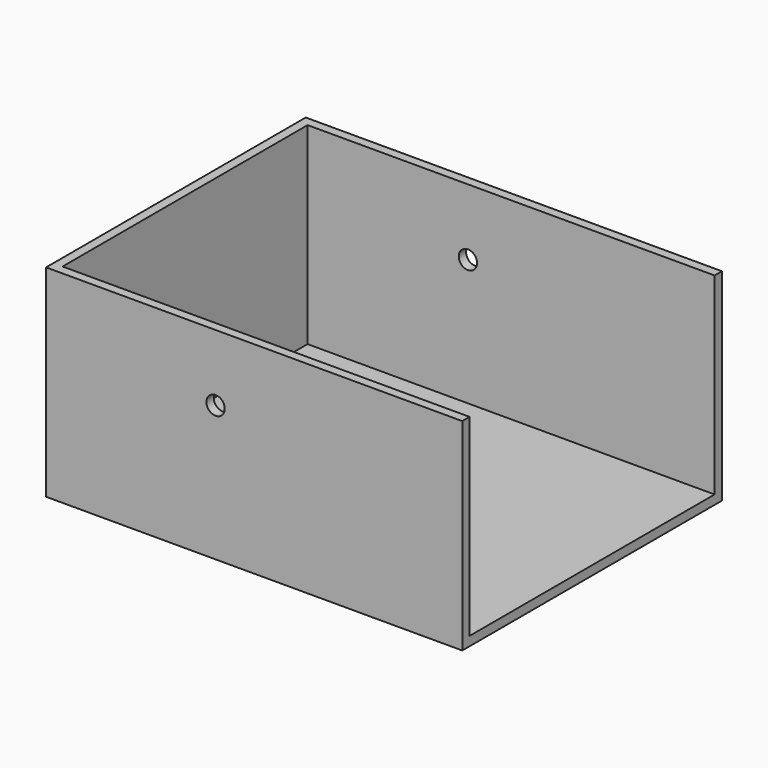
from build123d import *

# Parameters (mm, degrees)
F0_W     = 450
F0_H     = 280
F1_DEPTH = 225
F2_T     = -12.7
F3_R     = 12.7
F4_DEPTH = 450.001
F5_W     = 450
F5_H     = 280
F6_DEPTH = 127
F7_W     = 424.6
F7_H     = 267.3
F8_DEPTH = 139.701


with BuildPart() as f1:
    # F0 (on Front) → F1 (new body, symmetric)
    with BuildSketch(Plane.XZ):
        with Locations((90.62104, -7.292895)):
            Rectangle(F0_W, F0_H)
    extrude(amount=F1_DEPTH, both=True)

    # F2
    f2_openings = [f1.faces().sort_by_distance(p)[0] for p in [
        (90.62104, 0, 132.707105),
    ]]
    offset(amount=F2_T, openings=f2_openings)

    # F3 (on face) → F4 (cut, through all)
    with BuildSketch(Plane.XZ.offset(225)):
        with Locations((100.62104, 40.667105)):
            Circle(F3_R)
    extrude(amount=-F4_DEPTH, mode=Mode.SUBTRACT)

    # F5 (on face) → F6 (join)
    with BuildSketch(Plane.YZ.offset(315.62104)):
        with Locations((0, -7.292895)):
            Rectangle(F5_W, F5_H)
    extrude(amount=F6_DEPTH)

    # F7 (on face) → F8 (cut, through all)
    with BuildSketch(Plane(origin=(302.92104, 0, 0), x_dir=(0, -1, 0), z_dir=(-1, 0, 0))):
        with Locations((0, -0.942895)):
            Rectangle(F7_W, F7_H)
    extrude(amount=-F8_DEPTH, mode=Mode.SUBTRACT)


solid = f1.part
